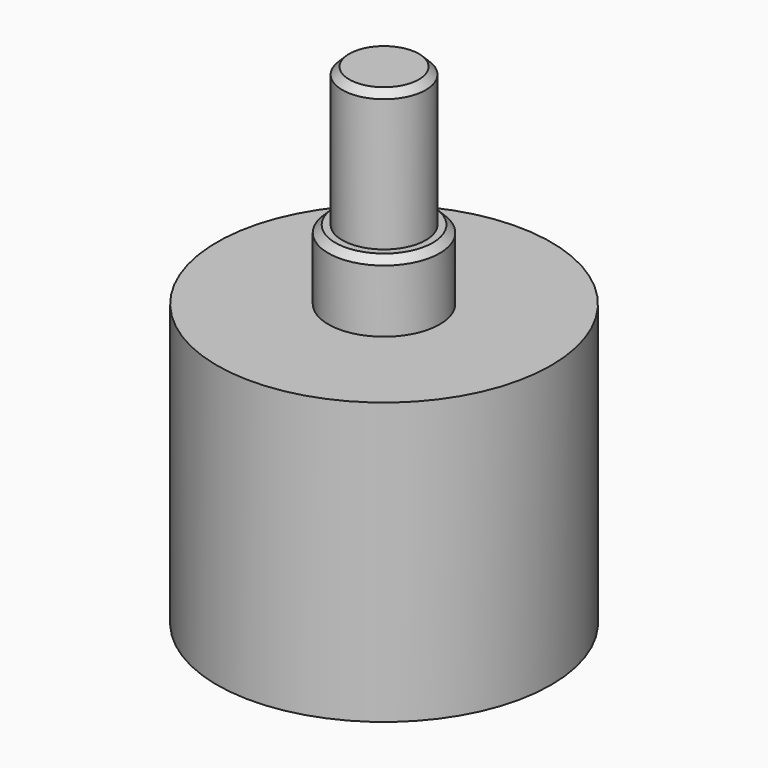
from build123d import *

# Parameters (mm, degrees)
SKETCH_R     = 12
PAD_DEPTH    = 20.2
SKETCH001_R  = 3
PAD001_DEPTH = 15
SKETCH002_R  = 4
PAD002_DEPTH = 5
CHAMFER_SIZE = 0.5


with BuildPart() as part:
    # Sketch → Pad (new body)
    with BuildSketch(Plane.XY):
        Circle(SKETCH_R)
    extrude(amount=-PAD_DEPTH)

    # Sketch001 → Pad001 (join)
    with BuildSketch(Plane.XY):
        Circle(SKETCH001_R)
    extrude(amount=PAD001_DEPTH)

    # Sketch002 → Pad002 (join)
    with BuildSketch(Plane.XY):
        Circle(SKETCH002_R)
    extrude(amount=PAD002_DEPTH)

    # Chamfer
    chamfer_edges = [part.edges().sort_by_distance(p)[0] for p in [
        (-4, 0, 5),
        (-3, 0, 15),
    ]]
    chamfer(chamfer_edges, length=CHAMFER_SIZE)


solid = part.part
